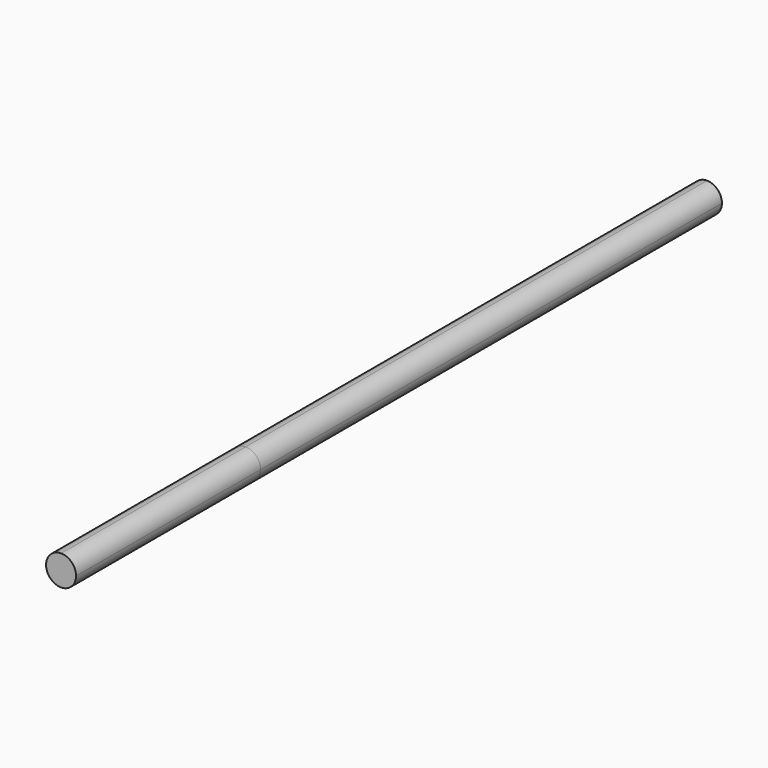
from build123d import *

# Parameters (mm, degrees)
F1_DEPTH = 63.5
F2_DEPTH = 25.4


with BuildPart() as f1:
    # F0 (on Front) → F1 (new body)
    with BuildSketch(Plane.XZ):
        with BuildLine():
            Line((0, -1.651), (0, 1.651))
            ThreePointArc((0, 1.651), (-1.651, 0), (0, -1.651))
        make_face()
        with BuildLine():
            ThreePointArc((0, -1.651), (1.1674332957, -1.1674332957), (1.651, 0))
            ThreePointArc((1.651, 0), (1.1674332957, 1.1674332957), (0, 1.651))
            Line((0, 1.651), (0, -1.651))
        make_face()
    extrude(amount=-F1_DEPTH)

    # F2 (add): a face of the model
    f2_faces = [f1.faces().sort_by_distance(p)[0] for p in [
        (0, 0, 0),
    ]]
    extrude(f2_faces, amount=F2_DEPTH)


solid = f1.part
